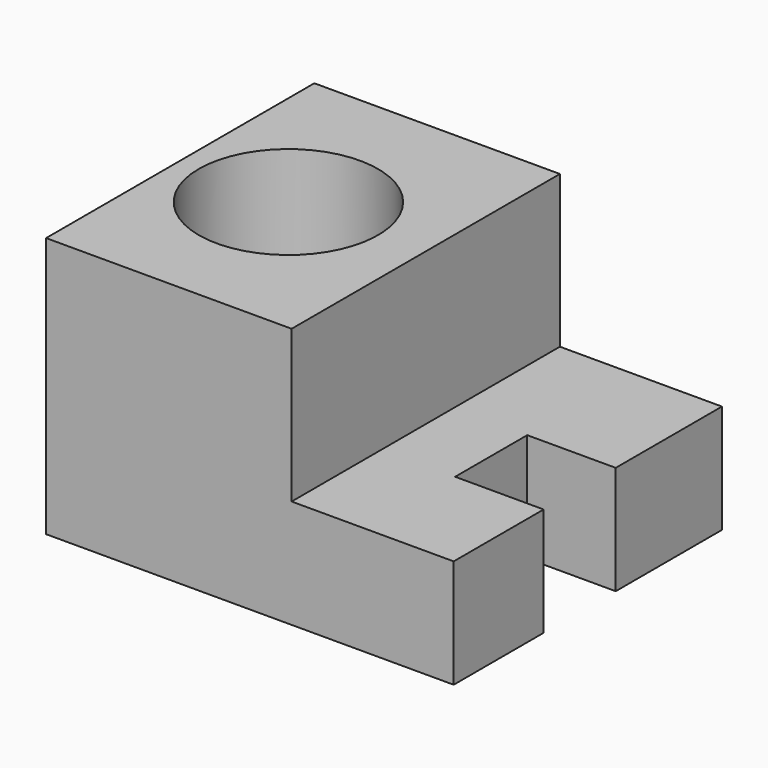
from build123d import *

# Parameters (mm, degrees)
F0_W     = 95.312461257
F0_H     = 78.4068834037
F1_DEPTH = 25.4
F2_W     = 20.6947550178
F2_H     = 21.0718084127
F3_DEPTH = 25.4
F4_W     = 57.420656085
F4_H     = 78.4068834037
F5_DEPTH = 35.56
F8_D     = 41.91


with BuildPart() as f1:
    # F0 (on Top) → F1 (new body)
    with BuildSketch(Plane.XY):
        with Locations((12.0962299407, -8.1613110378)):
            Rectangle(F0_W, F0_H)
    extrude(amount=F1_DEPTH)

    # F2 (on face) → F3 (cut)
    with BuildSketch(Plane.XY.offset(25.4)):
        with Locations((49.4050830603, -10.5359042063)):
            Rectangle(F2_W, F2_H)
    extrude(amount=-F3_DEPTH, mode=Mode.SUBTRACT)

    # F4 (on face) → F5 (join)
    with BuildSketch(Plane.XY.offset(25.4)):
        with Locations((-6.8496726453, -8.1613110378)):
            Rectangle(F4_W, F4_H)
    extrude(amount=F5_DEPTH)

    # F8 (through all)
    with Locations(Plane.XY.offset(60.96)):
        with Locations((-9.9101644009, -8.5985241458)):
            Hole(F8_D / 2)


solid = f1.part
